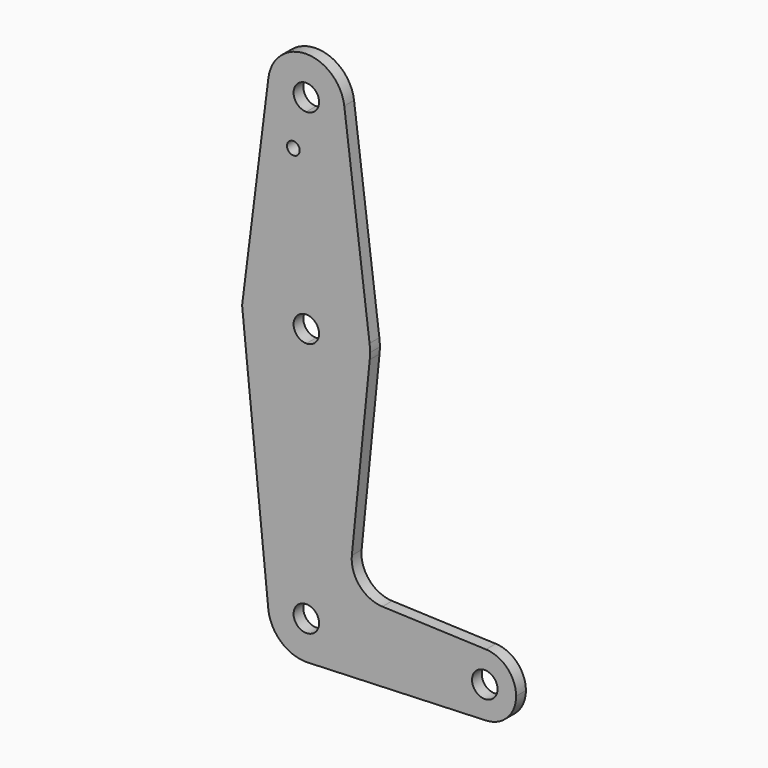
from build123d import *

# Parameters (mm, degrees)
F0_R     = 1.5875
F1_DEPTH = 3.048


with BuildPart() as f1:
    # F0 (on Front) → F1 (new body)
    with BuildSketch(Plane.XZ):
        with BuildLine():
            Line((0.7329714472, -72.9967561755), (0, -73.025))
            ThreePointArc((0, -73.025), (0.3667577048, -73.0179364248), (0.7329714472, -72.9967561755))
        make_face()
        with BuildLine():
            ThreePointArc((9.525, 50.8), (6.7351920908, 44.0648079092), (0, 41.275))
            Line((0, 41.275), (0, 15.875))
            ThreePointArc((0, 15.875), (10.5003255055, 11.9062500091), (15.7504882702, 1.9843750273))
            Line((15.7504882702, 1.9843750273), (9.4502929642, 51.990625))
            ThreePointArc((9.4502929642, 51.990625), (9.5063048942, 51.396483242), (9.525, 50.8))
        make_face()
        with BuildLine():
            Line((36.6435995308, -63.5), (9.525, -63.5))
            ThreePointArc((9.525, -63.5), (6.989534249, -69.9708605288), (0.7329714472, -72.9967561755))
            Line((0.7329714472, -72.9967561755), (44.7505834665, -71.3006113777))
            ThreePointArc((44.7505834665, -71.3006113777), (39.0373567746, -69.1252272487), (36.6435995308, -63.5))
        make_face()
        with BuildLine():
            ThreePointArc((-9.4502929642, 51.990625), (-7.14375, 44.4998046905), (0, 41.275))
            ThreePointArc((0, 41.275), (6.7351920908, 44.0648079092), (9.525, 50.8))
            ThreePointArc((9.525, 50.8), (9.5063048942, 51.396483242), (9.4502929642, 51.990625))
            ThreePointArc((9.4502929642, 51.990625), (0, 60.325), (-9.4502929642, 51.990625))
        make_face()
        with BuildLine():
            ThreePointArc((3.175, 50.8), (2.2450640303, 48.5549359697), (0, 47.625))
            ThreePointArc((0, 47.625), (-2.2450640303, 53.0450640303), (3.175, 50.8))
        make_face(mode=Mode.SUBTRACT)
        with BuildLine():
            ThreePointArc((0, -15.875), (-11.9062499168, -10.5003256101), (-15.7504883051, 1.9843747505))
            Line((-15.7504883051, 1.9843747505), (-16.0004960241, 0))
            Line((-16.0004960241, 0), (-9.4765871109, -64.4591255022))
            ThreePointArc((-9.4765871109, -64.4591255022), (-7.0661621623, -57.1129054105), (0, -53.975))
            Line((0, -53.975), (0, -15.875))
        make_face()
        with BuildLine():
            ThreePointArc((44.7505834665, -55.6993886223), (39.0373567746, -57.8747727513), (36.6435995308, -63.5))
            ThreePointArc((36.6435995308, -63.5), (39.0373567746, -69.1252272487), (44.7505834665, -71.3006113777))
            ThreePointArc((44.7505834665, -71.3006113777), (50.0752272487, -68.9126432254), (52.2564004692, -63.5))
            ThreePointArc((52.2564004692, -63.5), (50.0752272487, -58.0873567746), (44.7505834665, -55.6993886223))
        make_face()
        with BuildLine():
            ThreePointArc((47.625, -63.5), (44.45, -66.675), (41.275, -63.5))
            ThreePointArc((41.275, -63.5), (44.45, -60.325), (47.625, -63.5))
        make_face(mode=Mode.SUBTRACT)
        with BuildLine():
            Line((0, 15.875), (0, 41.275))
            ThreePointArc((0, 41.275), (-7.14375, 44.4998046905), (-9.4502929642, 51.990625))
            Line((-9.4502929642, 51.990625), (-15.7504883051, 1.9843747505))
            ThreePointArc((-15.7504883051, 1.9843747505), (-10.5003256101, 11.9062499168), (0, 15.875))
        make_face()
        with Locations((-3.2327277586, 38.5906808078)):
            Circle(F0_R, mode=Mode.SUBTRACT)
        with BuildLine():
            ThreePointArc((15.7504882702, 1.9843750273), (10.5003255055, 11.9062500091), (0, 15.875))
            Line((0, 15.875), (0, 3.175))
            ThreePointArc((0, 3.175), (2.2450640303, 2.2450640303), (3.175, 0))
            ThreePointArc((3.175, 0), (2.2450640303, -2.2450640303), (0, -3.175))
            Line((0, -3.175), (0, -15.875))
            ThreePointArc((0, -15.875), (10.6492737428, -11.7732150983), (15.7954255641, -1.5875))
            ThreePointArc((15.7954255641, -1.5875), (15.8550939106, -0.7947465541), (15.875, 0))
            ThreePointArc((15.875, 0), (15.8438414895, 0.9941387503), (15.7504882702, 1.9843750273))
        make_face()
        with BuildLine():
            Line((0, 3.175), (0, 15.875))
            ThreePointArc((0, 15.875), (-10.5003256101, 11.9062499168), (-15.7504883051, 1.9843747505))
            ThreePointArc((-15.7504883051, 1.9843747505), (-11.9062499168, -10.5003256101), (0, -15.875))
            Line((0, -15.875), (0, -3.175))
            ThreePointArc((0, -3.175), (-3.175, 0), (0, 3.175))
        make_face()
        with BuildLine():
            Line((0, -60.325), (0, -53.975))
            ThreePointArc((0, -53.975), (-7.0661621623, -57.1129054105), (-9.4765871109, -64.4591255022))
            ThreePointArc((-9.4765871109, -64.4591255022), (-6.3870945895, -70.5661621623), (0, -73.025))
            Line((0, -73.025), (0.7329714472, -72.9967561755))
            ThreePointArc((0.7329714472, -72.9967561755), (6.989534249, -69.9708605288), (9.525, -63.5))
            Line((9.525, -63.5), (3.175, -63.5))
            ThreePointArc((3.175, -63.5), (-2.2450640303, -65.7450640303), (0, -60.325))
        make_face()
        with BuildLine():
            ThreePointArc((15.7954255641, -1.5875), (10.6492737428, -11.7732150983), (0, -15.875))
            Line((0, -15.875), (0, -53.975))
            ThreePointArc((0, -53.975), (6.7351920908, -56.7648079092), (9.525, -63.5))
            Line((9.525, -63.5), (36.6435995308, -63.5))
            ThreePointArc((36.6435995308, -63.5), (39.0373567746, -57.8747727513), (44.7505834665, -55.6993886223))
            Line((44.7505834665, -55.6993886223), (18.9394996941, -54.7048018317))
            ThreePointArc((18.9394996941, -54.7048018317), (13.247992248, -51.9791314728), (11.3352710026, -45.9654775625))
            Line((11.3352710026, -45.9654775625), (15.7954255641, -1.5875))
        make_face()
        with BuildLine():
            ThreePointArc((9.525, -63.5), (6.7351920908, -56.7648079092), (0, -53.975))
            Line((0, -53.975), (0, -60.325))
            ThreePointArc((0, -60.325), (2.2450640303, -61.2549359697), (3.175, -63.5))
            Line((3.175, -63.5), (9.525, -63.5))
        make_face()
    extrude(amount=F1_DEPTH)


solid = f1.part
